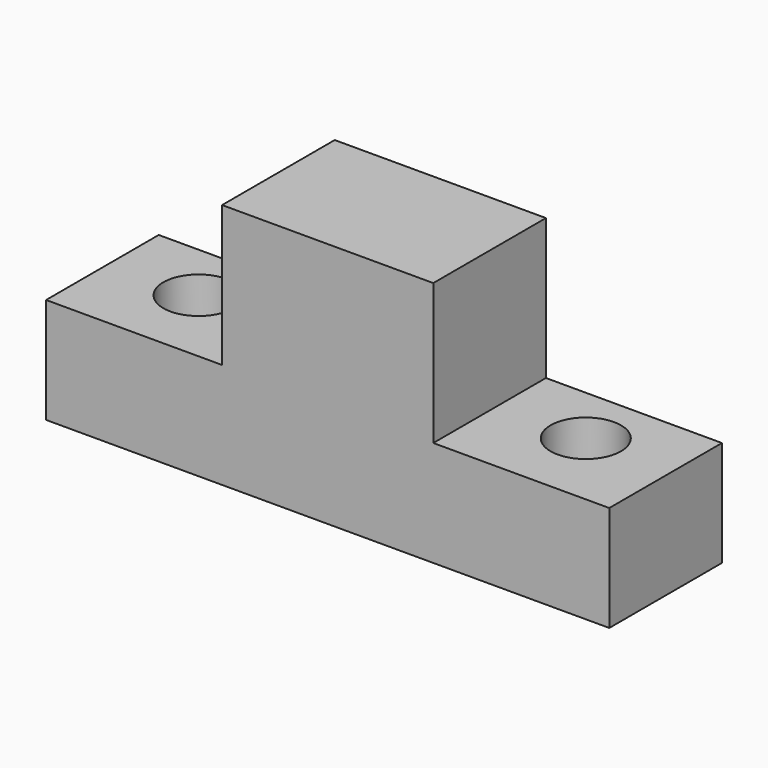
from build123d import *

# Parameters (mm, degrees)
F1_DEPTH = 25.4
F2_R     = 6.35
F3_DEPTH = 12.7


with BuildPart() as f1:
    # F0 (on Front) → F1 (new body)
    with BuildSketch(Plane.XZ):
        Polygon((0, 0), (-19.05, 0), (-19.05, -25.4), (-50.8, -25.4), (-50.8, -44.45), (0, -44.45), align=None)
    extrude(amount=F1_DEPTH)

    # F2 (on face) → F3 (cut)
    with BuildSketch(Plane.XY.offset(-25.4)):
        with Locations((-34.925, -10.856094)):
            Circle(F2_R)
    extrude(amount=-F3_DEPTH, mode=Mode.SUBTRACT)

    # F4: F1 across plane


with BuildPart() as f1_1:
    add(f1.part)
    add(f1.part.mirror(Plane.YZ))


solid = f1_1.part
